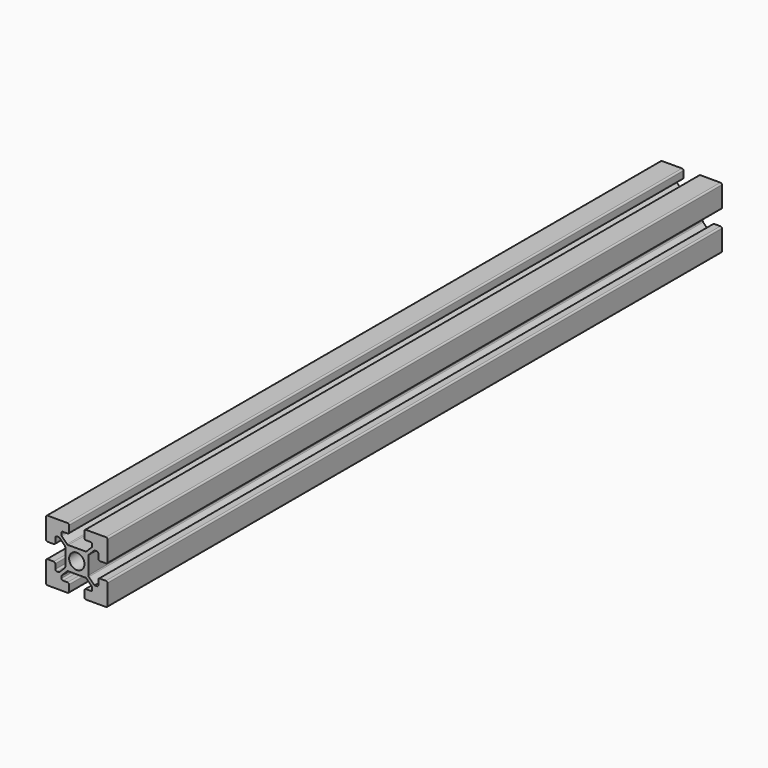
from build123d import *

# Parameters (mm, degrees)
F0_R     = 5
F1_DEPTH = 250
F2_R     = 1


with BuildPart() as f1:
    # F0 (on Front) → F1 (new body, symmetric)
    with BuildSketch(Plane.XZ):
        Polygon((20, 5), (20, 20), (5, 20), (5, 14), (10.05, 14), (10.05, 11.5), (6.05, 7.5), (-6.05, 7.5), (-10.05, 11.5), (-10.05, 14), (-5, 14), (-5, 20), (-20, 20), (-20, 5), (-14, 5), (-14, 10.05), (-11.5, 10.05), (-7.5, 6.05), (-7.5, -6.05), (-11.5, -10.05), (-14, -10.05), (-14, -5), (-20, -5), (-20, -20), (-5, -20), (-5, -14), (-10.05, -14), (-10.05, -11.5), (-6.05, -7.5), (6.05, -7.5), (10.05, -11.5), (10.05, -14), (5, -14), (5, -20), (20, -20), (20, -5), (14, -5), (14, -10.05), (11.5, -10.05), (7.5, -6.05), (7.5, 6.05), (11.5, 10.05), (14, 10.05), (14, 5), align=None)
        Circle(F0_R, mode=Mode.SUBTRACT)
    extrude(amount=F1_DEPTH, both=True)

    # F2
    f2_edges = [f1.edges().sort_by_distance(p)[0] for p in [
        (-5, 0, 20),
        (5, 0, 20),
        (20, 0, 20),
        (20, 0, 5),
        (-5, 0, 14),
        (-6.05, 0, 7.5),
        (-10.05, 0, 11.5),
        (-10.05, 0, 14),
        (10.05, 0, 14),
        (5, 0, 14),
        (10.05, 0, 11.5),
        (6.05, 0, 7.5),
        (20, 0, -5),
        (14, 0, -5),
        (7.5, 0, 6.05),
        (7.5, 0, -6.05),
        (-10.05, 0, -11.5),
        (-10.05, 0, -14),
        (5, 0, -14),
        (20, 0, -20),
        (-5, 0, -20),
        (-14, 0, -5),
        (-14, 0, -10.05),
        (-14, 0, 5),
        (-20, 0, 20),
        (14, 0, -10.05),
        (10.05, 0, -11.5),
        (10.05, 0, -14),
        (-5, 0, -14),
        (5, 0, -20),
        (-14, 0, 10.05),
        (-20, 0, 5),
        (-20, 0, -5),
        (-7.5, 0, 6.05),
        (-7.5, 0, -6.05),
        (-11.5, 0, -10.05),
        (14, 0, 10.05),
        (11.5, 0, 10.05),
        (14, 0, 5),
        (-6.05, 0, -7.5),
        (6.05, 0, -7.5),
        (-20, 0, -20),
    ]]
    fillet(f2_edges, radius=F2_R)


solid = f1.part
